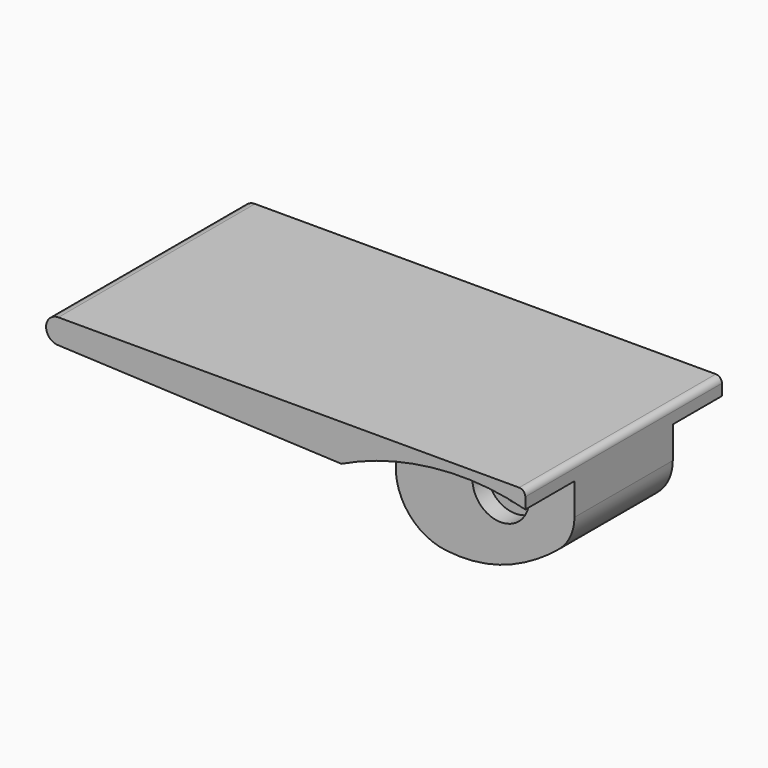
from build123d import *

# Parameters (mm, degrees)
SKETCH_R        = 3.1
PAD_DEPTH       = 20
POCKET001_DEPTH = 10
SKETCH001_R     = 4.6
POCKET_DEPTH    = 3


with BuildPart() as part:
    # Sketch → Pad (new body, symmetric)
    with BuildSketch(Plane.XZ):
        with BuildLine():
            Line((-64, 8), (11, 8))
            ThreePointArc((12, 7), (11.707107, 7.707107), (11, 8))
            Line((12, 7), (12, 0))
            ThreePointArc((9.499513, -5.362311), (11.344155, -2.958328), (12, 0))
            ThreePointArc((1.937819, -9.996123), (5.890842, -7.960183), (9.499513, -5.362311))
            ThreePointArc((-8.966462, -11.52862), (-3.413443, -11.48016), (1.937819, -9.996123))
            ThreePointArc((-17.077228, -2.032133), (-14.868336, -8.357429), (-8.966462, -11.52862))
            Line((-16.97253, 0.96604), (-17.077228, -2.032133))
            ThreePointArc((-16.97253, 0.96604), (-17.237697, 1.679846), (-17.928591, 2))
            Line((-17.928591, 2), (-64.086659, 4.001878))
            ThreePointArc((-64, 8), (-65.99953, 6.04334), (-64.086659, 4.001878))
        make_face()
        Circle(SKETCH_R, mode=Mode.SUBTRACT)
    extrude(amount=PAD_DEPTH, both=True)

    # Sketch007 → Pocket001 (cut)
    with BuildSketch(Plane.XZ.offset(20)):
        with BuildLine():
            Line((12, 5.184354), (12, -34.815646))
            Line((12, -34.815646), (-17.928591, -34.815646))
            Line((-17.928591, 2), (-17.928591, -34.815646))
            ThreePointArc((0, 6.5), (-9.194185, 5.165908), (-17.928591, 2))
            ThreePointArc((12, 5.184354), (6.049918, 6.29748), (0, 6.5))
        make_face()
    pocket001 = extrude(amount=-POCKET001_DEPTH, mode=Mode.SUBTRACT)

    # Sketch001 → Pocket (cut)
    with BuildSketch(Plane.XZ.offset(10)):
        Circle(SKETCH001_R)
    pocket = extrude(amount=-POCKET_DEPTH, mode=Mode.SUBTRACT)

    # Mirrored: Pocket, Pocket001 across XZ
    add(pocket.mirror(Plane.XZ), mode=Mode.SUBTRACT)
    add(pocket001.mirror(Plane.XZ), mode=Mode.SUBTRACT)


solid = part.part
